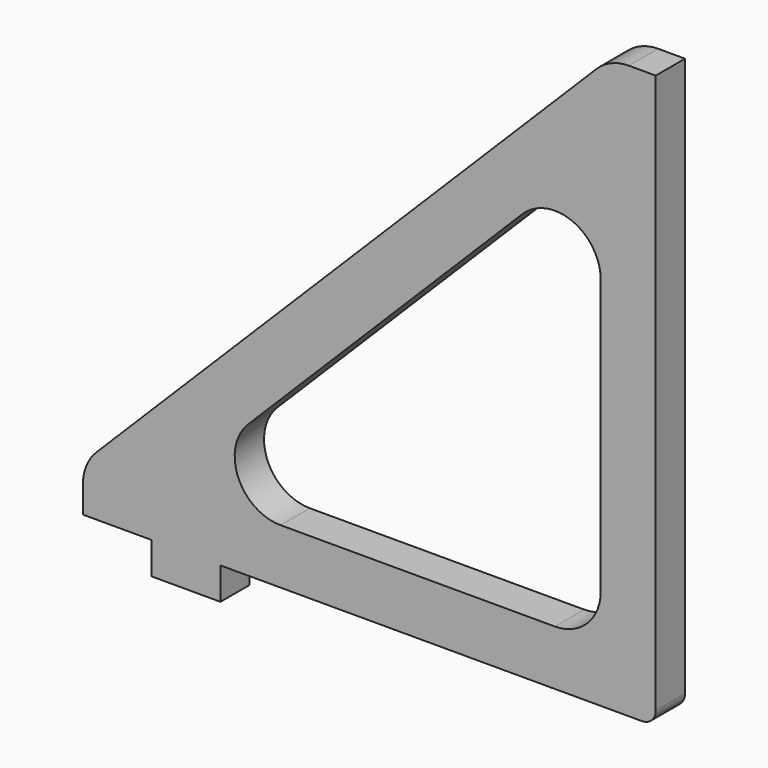
from build123d import *

# Parameters (mm, degrees)
F1_DEPTH = 8


with BuildPart() as f1:
    # F0 (on Front) → F1 (new body)
    with BuildSketch(Plane.XZ):
        with BuildLine():
            ThreePointArc((-3, 0), (-0.87868, 0.87868), (0, 3))
            Line((0, 3), (0, 125))
            Line((0, 125), (-5.857864, 125))
            ThreePointArc((-5.857864, 125), (-9.684699, 124.238795), (-12.928932, 122.071068))
            Line((-12.928932, 122.071068), (-122.071068, 12.928932))
            ThreePointArc((-122.071068, 12.928932), (-124.238795, 9.684699), (-125, 5.857864))
            Line((-125, 5.857864), (-125, 0))
            Line((-125, 0), (-110, 0))
            Line((-110, 0), (-110, -7))
            Line((-110, -7), (-95, -7))
            Line((-95, -7), (-95, 0))
            Line((-95, 0), (-3, 0))
        make_face()
        with BuildLine():
            ThreePointArc((-29.071068, 88.958369), (-18.173166, 91.126097), (-12, 81.887302))
            Line((-12, 81.887302), (-12, 22))
            ThreePointArc((-12, 22), (-14.928932, 14.928932), (-22, 12))
            Line((-22, 12), (-81.887302, 12))
            ThreePointArc((-81.887302, 12), (-91.126097, 18.173166), (-88.958369, 29.071068))
            Line((-88.958369, 29.071068), (-29.071068, 88.958369))
        make_face(mode=Mode.SUBTRACT)
    extrude(amount=F1_DEPTH)


solid = f1.part
